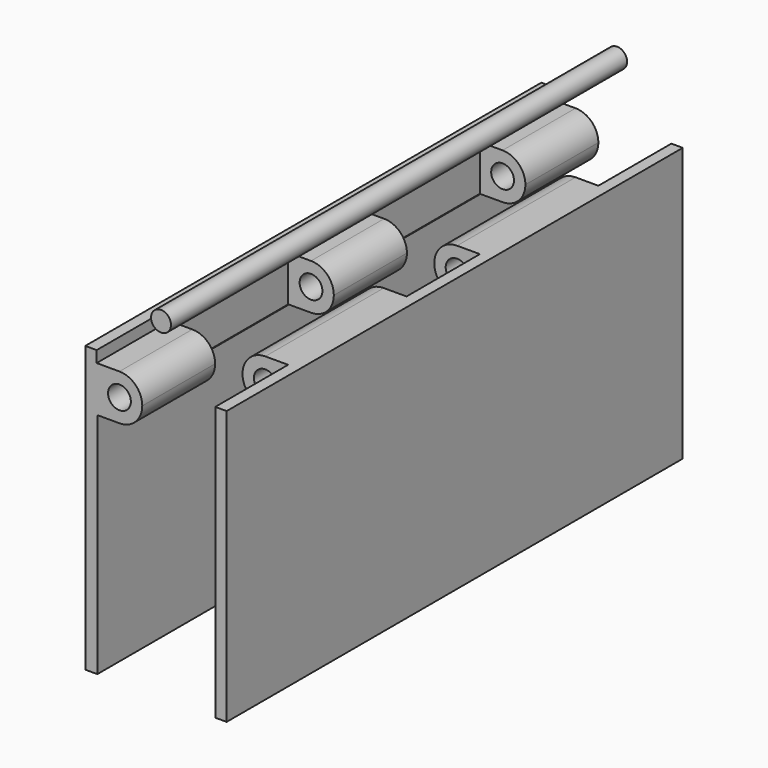
from build123d import *

# Parameters (mm, degrees)
F0_R     = 1
F1_DEPTH = 50
F3_W     = 5.122395698
F3_H     = 8
F3_W_2   = 5.3539113016
F3_H_2   = 12.9889300168
F3_H_3   = 8.1063993275
F4_DEPTH = 5
F5_R     = 0.875
F6_DEPTH = 50
F7_W     = 1
F7_H     = 4
F8_DEPTH = 50


with BuildPart() as f1:
    # F0 (on Front) → F1 (new body)
    with BuildSketch(Plane.XZ):
        Polygon((11.5136448294, 1.7796257744), (11.5136448294, -18.2203742256), (12.5136448294, -18.2203742256), (12.5136448294, 5.7796257744), (11.5136448294, 5.7796257744), (11.5136448294, 5.7715522125), align=None)
        with BuildLine():
            Line((9.5136448294, 1.7796257744), (11.5136448294, 1.7796257744))
            Line((11.5136448294, 1.7796257744), (11.5136448294, 5.7715522125))
            Line((11.5136448294, 5.7715522125), (11.5136448294, 5.7796257744))
            Line((11.5136448294, 5.7796257744), (9.5136448294, 5.7796257744))
            ThreePointArc((9.5136448294, 5.7796257744), (8.099431267, 5.1938393367), (7.5136448294, 3.7796257744))
            ThreePointArc((7.5136448294, 3.7796257744), (8.099431267, 2.365412212), (9.5136448294, 1.7796257744))
        make_face()
        with Locations((9.5136448294, 3.7796257744)):
            Circle(F0_R, mode=Mode.SUBTRACT)
    extrude(amount=F1_DEPTH)


with BuildPart() as f1b:
    # F0 (on Front) → F1, piece 2 (new body)
    with BuildSketch(Plane.XZ):
        with BuildLine():
            Line((18.6969495416, 5.7796257744), (18.6969495416, 6.7796257744))
            Line((18.6969495416, 6.7796257744), (17.6969495416, 6.7796257744))
            Line((17.6969495416, 6.7796257744), (17.6969495416, -18.2203742256))
            Line((17.6969495416, -18.2203742256), (18.7577743009, -18.2203742256))
            Line((18.7577743009, -18.2203742256), (18.7577743009, 1.7796257744))
            Line((18.7577743009, 1.7796257744), (20.6969495416, 1.7796257744))
            ThreePointArc((20.6969495416, 1.7796257744), (22.1111631039, 2.365412212), (22.6969495416, 3.7796257744))
            ThreePointArc((22.6969495416, 3.7796257744), (22.1111631039, 5.1938393367), (20.6969495416, 5.7796257744))
            Line((20.6969495416, 5.7796257744), (19.6969495416, 5.7796257744))
            Line((19.6969495416, 5.7796257744), (18.6969495416, 5.7796257744))
        make_face()
        with Locations((20.6969495416, 3.7796257744)):
            Circle(F0_R, mode=Mode.SUBTRACT)
    extrude(amount=F1_DEPTH)


with BuildPart() as f1b_1:
    # F2: moved
    add(f1b.part.moved(Location((-17.58463, 0, 0))))


with BuildPart() as f4_tool:
    # F3 (on face) → F4 (new body)
    with BuildSketch(Plane.XY.offset(6.7796257744)):
        with Locations((9.0274286922, -4)):
            Rectangle(F3_W, F3_H)
        with Locations((3.7892751924, -14.4944650084)):
            Rectangle(F3_W_2, F3_H_2)
        with Locations((9.0274286922, -46.0645761341)):
            Rectangle(F3_W, F3_H_3)
        Polygon((11.5886265412, -20.9889300168), (6.4662308432, -20.9889300168), (6.4662308432, -29), (6.4662308432, -29.0307551622), (11.5886265412, -29.0307551622), align=None)
        Polygon((6.4662308432, -29.0307551622), (6.4662308432, -29), (1.1123195416, -29), (1.1123195416, -42.0113764703), (6.4662308432, -42.0113764703), align=None)
    extrude(amount=-F4_DEPTH)


with BuildPart() as f1_1:
    add(f1.part)

    # F4: cut by f4_tool
    add(f4_tool.part, mode=Mode.SUBTRACT)

    # F7 (on face) → F8 (join)
    with BuildSketch(Plane.XZ.offset(50)):
        with Locations((12.0136448294, 3.7796257744)):
            Rectangle(F7_W, F7_H)
    extrude(amount=-F8_DEPTH)


with BuildPart() as f1b_2:
    add(f1b_1.part)

    # F4: cut by f4_tool
    add(f4_tool.part, mode=Mode.SUBTRACT)


with BuildPart() as f6:
    # F5 (on Front) → F6 (new body)
    with BuildSketch(Plane.XZ):
        with Locations((6.7554977722, 10.8428876847)):
            Circle(F5_R)
    extrude(amount=F6_DEPTH)


solid = Compound([f1_1.part, f1b_2.part, f6.part])
